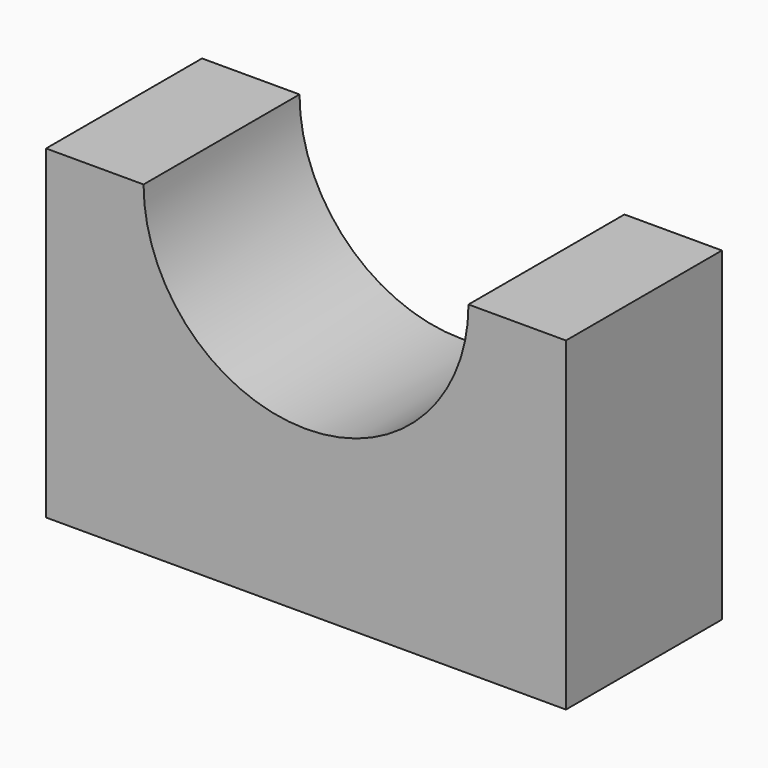
from build123d import *

# Parameters (mm, degrees)
F0_W     = 101.6
F0_H     = 63.5
F1_DEPTH = 38.1
F3_DEPTH = 50.8


with BuildPart() as f1:
    # F0 (on Front) → F1 (new body)
    with BuildSketch(Plane.XZ):
        Rectangle(F0_W, F0_H)
    extrude(amount=F1_DEPTH)

    # F2 (on face) → F3 (cut)
    with BuildSketch(Plane.XZ.offset(38.1)):
        with BuildLine():
            ThreePointArc((-31.75, 31.75), (0, 0), (31.75, 31.75))
            Line((31.75, 31.75), (-31.75, 31.75))
        make_face()
    extrude(amount=-F3_DEPTH, mode=Mode.SUBTRACT)


solid = f1.part
